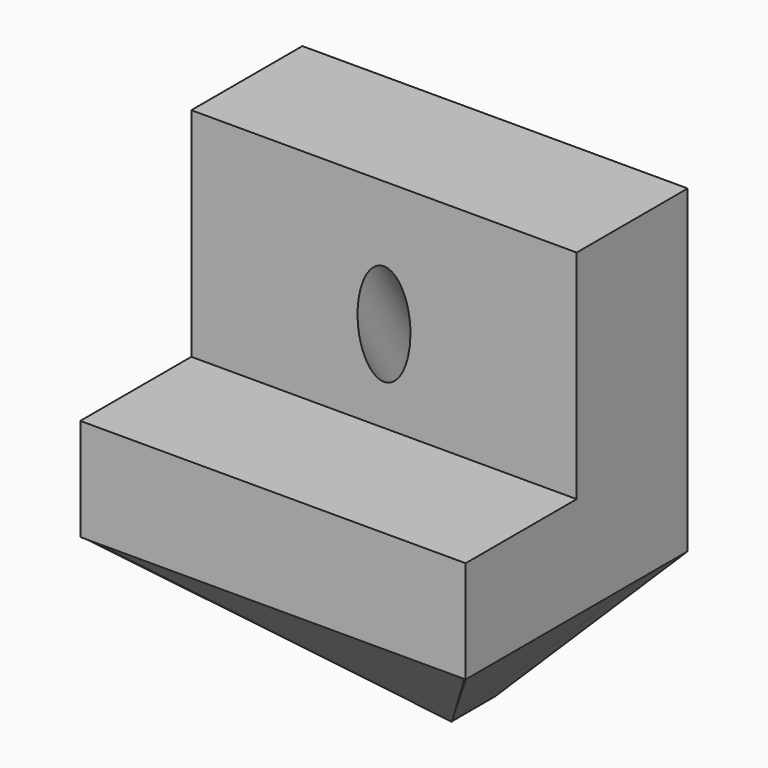
from build123d import *

# Parameters (mm, degrees)
F0_W      = 45.0838953257
F0_H      = 11.9667137042
F1_DEPTH  = 32.47426
F3_DEPTH  = 6.35
F4_W      = 45.0838953257
F4_H      = 16.23713
F5_DEPTH  = 25.4
F7_DEPTH  = 15.33327
F9_DEPTH  = 15.1057
F12_DEPTH = 6.35
F15_R     = 3.0971764623
F16_DEPTH = 50.8


with BuildPart() as f1:
    # F0 (on Front) → F1 (new body)
    with BuildSketch(Plane.XZ):
        Rectangle(F0_W, F0_H)
    extrude(amount=F1_DEPTH)

    # F2 (on face) → F3 (join)
    with BuildSketch(Plane(origin=(0, 0, 0), x_dir=(-1, 0, 0), z_dir=(0, 1, 0))):
        Polygon((-22.5419476628, -5.9833568521), (0, -28.2688885927), (22.5419476628, -5.9833568521), align=None)
    extrude(amount=-F3_DEPTH)

    # F4 (on face) → F5 (join)
    with BuildSketch(Plane.XY.offset(5.9833568521)):
        with Locations((0, -8.118565)):
            Rectangle(F4_W, F4_H)
    extrude(amount=F5_DEPTH)

    # F6 (on face) → F7 (join)
    with BuildSketch(Plane(origin=(-14.1335193941, 0, -14.2961387765), x_dir=(0.7111398414, 0, -0.7030505857), z_dir=(-0.7030505857, 0, -0.7111398414))):
        Polygon((-11.8238745458, 6.35), (19.8744586816, 6.35), (-11.7087624967, 32.2476960719), align=None)
    extrude(amount=-F7_DEPTH)

    # F8 (on face) → F9 (join)
    with BuildSketch(Plane(origin=(14.1335193941, 0, -14.2961387765), x_dir=(0.7111398414, 0, 0.7030505857), z_dir=(0.7030505857, 0, -0.7111398414))):
        Polygon((11.742355302, 32.341375947), (-19.8744586816, 6.35), (11.8238745458, 6.35), align=None)
    extrude(amount=-F9_DEPTH)

    # F11 (on 3pt) → F12 (join)
    with BuildSketch(Plane(origin=(-0.0840004707, -16.6552165824, -19.4391446065), x_dir=(0.999994616, -0.0021350351, -0.0024919073), z_dir=(0.0032814596, 0.6506323042, 0.7593858287))):
        Polygon((22.4465951324, -20.7644402981), (0, 13.771279715), (-22.5187186152, -20.7644402981), align=None)
    extrude(amount=F12_DEPTH)

    # F15 (on 3pt) → F16 (cut)
    with BuildSketch(Plane(origin=(0, -18.3562553404, 30.0906216504), x_dir=(1, 0, 0), z_dir=(0, 0.5207793852, -0.8536912978))):
        with Locations((0, 5.1728854887)):
            Circle(F15_R)
    extrude(amount=F16_DEPTH, mode=Mode.SUBTRACT)


solid = f1.part
